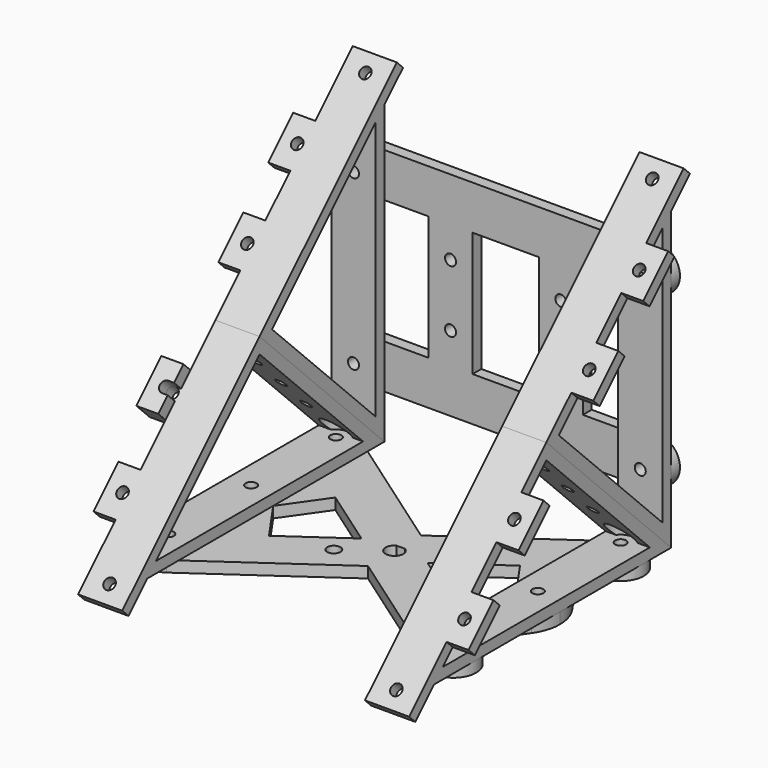
from build123d import *

# Parameters (mm, degrees)
F2_DEPTH  = 20
F3_DEPTH  = 20
F5_R      = 2.5
F6_DEPTH  = 5
F4_R      = 2.5
F4_R_2    = 3
F7_DEPTH  = 5
F8_R      = 2.5
F9_DEPTH  = 5
F10_R     = 2.5
F11_DEPTH = 5
F13_W     = 10
F13_H     = 20
F13_W_2   = 20
F13_H_2   = 22.0710678119
F13_R     = 2.5
F14_DEPTH = 5
F15_R     = 2.5
F16_DEPTH = 5
F17_W     = 10
F17_H     = 20
F17_W_2   = 20
F17_H_2   = 22.0710678119
F17_R     = 2.5
F18_DEPTH = 5
F19_R     = 2.5
F20_DEPTH = 5
F21_R     = 2.5
F22_DEPTH = 10
F23_R     = 6
F24_DEPTH = 25
F27_DEPTH = 5.7


with BuildPart() as f2:
    # F0 (on Right) → F2 (new body)
    with BuildSketch(Plane.YZ):
        Polygon((-70.7106781187, 70.7106781187), (-141.4213562373, 0), (0, 0), align=None)
        Polygon((-12.0710678119, 5), (-129.3502884254, 5), (-70.7106781187, 63.6396103068), align=None, mode=Mode.SUBTRACT)
    extrude(amount=F2_DEPTH)

    # F10 (on face) → F11 (cut, through all)
    with BuildSketch(Plane(origin=(0, 0, 0), x_dir=(1, 0, 0), z_dir=(0, 0, -1))):
        with Locations((10.4454636048, 110.450016473)):
            Circle(F10_R)
        with Locations((10, 63)):
            Circle(F10_R)
        with Locations((10.4454636048, 15.549983527)):
            Circle(F10_R)
    extrude(amount=-F11_DEPTH, mode=Mode.SUBTRACT)

    # F17 (on face) → F18 (join)
    with BuildSketch(Plane(origin=(0, -70.7106781187, 70.7106781187), x_dir=(1, 0, 0), z_dir=(0, -0.7071067812, 0.7071067812))):
        with Locations((-5, -70)):
            Rectangle(F17_W, F17_H)
        with Locations((-5, -30)):
            Rectangle(F17_W, F17_H)
        with Locations((10, -98.9644660941)):
            Rectangle(F17_W_2, F17_H_2)
        with Locations((10, -102.5)):
            Circle(F17_R, mode=Mode.SUBTRACT)
    extrude(amount=-F18_DEPTH)

    # F19 (on face) → F20 (cut, through all)
    with BuildSketch(Plane(origin=(0, -70.7106781187, 70.7106781187), x_dir=(1, 0, 0), z_dir=(0, -0.7071067812, 0.7071067812))):
        with Locations((-2.5, -30)):
            Circle(F19_R)
        with Locations((-2.5, -70)):
            Circle(F19_R)
    extrude(amount=-F20_DEPTH, mode=Mode.SUBTRACT)


with BuildPart() as f3:
    # F1 (on Right) → F3 (new body)
    with BuildSketch(Plane.YZ):
        Polygon((-70.7106781187, 70.7106781187), (0, 0), (0, 141.4213562373), align=None)
        Polygon((-5, 12.0710678119), (-63.6396103068, 70.7106781187), (-5, 129.3502884254), align=None, mode=Mode.SUBTRACT)
    extrude(amount=F3_DEPTH)

    # F5 (on face) → F6 (cut, through all)
    with BuildSketch(Plane(origin=(0, 0, 0), x_dir=(-1, 0, 0), z_dir=(0, 1, 0))):
        with Locations((-10, 106.4213562373)):
            Circle(F5_R)
        with Locations((-10, 30)):
            Circle(F5_R)
    extrude(amount=-F6_DEPTH, mode=Mode.SUBTRACT)

    # F13 (on face) → F14 (join)
    with BuildSketch(Plane(origin=(0, -70.7106781187, 70.7106781187), x_dir=(1, 0, 0), z_dir=(0, -0.7071067812, 0.7071067812))):
        with Locations((-5, 70)):
            Rectangle(F13_W, F13_H)
        with Locations((-5, 30)):
            Rectangle(F13_W, F13_H)
        with Locations((10, 98.9644660941)):
            Rectangle(F13_W_2, F13_H_2)
        with Locations((10, 102.5)):
            Circle(F13_R, mode=Mode.SUBTRACT)
    extrude(amount=-F14_DEPTH)

    # F15 (on face) → F16 (cut, through all)
    with BuildSketch(Plane(origin=(0, -70.7106781187, 70.7106781187), x_dir=(1, 0, 0), z_dir=(0, -0.7071067812, 0.7071067812))):
        with Locations((-2.5, 70)):
            Circle(F15_R)
        with Locations((-2.5, 30)):
            Circle(F15_R)
    extrude(amount=-F16_DEPTH, mode=Mode.SUBTRACT)


with BuildPart() as f7:
    # F4 (on Top) → F7 (new body)
    with BuildSketch(Plane.XY):
        with BuildLine():
            Line((133.5632646047, -6.9935606616), (75, -48))
            Line((75, -48), (16.4367353953, -6.9935606616))
            ThreePointArc((16.4367353953, -6.9935606616), (1.8890407394, -9.5587117365), (4.4541918143, -24.1064063924))
            Line((4.4541918143, -24.1064063924), (16.7765562477, -32.7346188573))
            Line((16.7765562477, -32.7346188573), (3.6169591142, -51.528471273))
            ThreePointArc((3.6169591142, -51.528471273), (0.925660985, -56.9858840099), (0, -63))
            ThreePointArc((0, -63), (0.925660985, -69.0141159901), (3.6169591142, -74.471528727))
            Line((3.6169591142, -74.471528727), (16.7765562477, -93.2653811427))
            Line((16.7765562477, -93.2653811427), (4.4541918143, -101.8935936076))
            ThreePointArc((4.4541918143, -101.8935936076), (1.8890407394, -116.4412882635), (16.4367353953, -119.0064393384))
            Line((16.4367353953, -119.0064393384), (75, -78))
            Line((75, -78), (133.5632646047, -119.0064393384))
            ThreePointArc((133.5632646047, -119.0064393384), (148.1109592606, -116.4412882635), (145.5458081857, -101.8935936076))
            Line((145.5458081857, -101.8935936076), (133.2234437523, -93.2653811427))
            Line((133.2234437523, -93.2653811427), (146.3830408858, -74.471528727))
            ThreePointArc((146.3830408858, -74.471528727), (149.074339015, -69.0141159901), (150, -63))
            ThreePointArc((150, -63), (149.074339015, -56.9858840099), (146.3830408858, -51.528471273))
            Line((146.3830408858, -51.528471273), (133.2234437523, -32.7346188573))
            Line((133.2234437523, -32.7346188573), (145.5458081857, -24.1064063924))
            ThreePointArc((145.5458081857, -24.1064063924), (148.1109592606, -9.5587117365), (133.5632646047, -6.9935606616))
        make_face()
        with Locations((10.4454636048, -110.450016473)):
            Circle(F4_R, mode=Mode.SUBTRACT)
        with Locations((57.6763832506, -75.7335110131)):
            Circle(F4_R_2, mode=Mode.SUBTRACT)
        with Locations((139.5545363952, -110.450016473)):
            Circle(F4_R, mode=Mode.SUBTRACT)
        with BuildLine():
            ThreePointArc((76.9364916731, -59.5), (75, -67), (73.0635083269, -59.5))
            Line((73.0635083269, -59.5), (75, -59.5))
            Line((75, -59.5), (76.9364916731, -59.5))
        make_face(mode=Mode.SUBTRACT)
        with Locations((10, -63)):
            Circle(F4_R, mode=Mode.SUBTRACT)
        Polygon((33.1595971335, -44.2061475843), (60, -63), (33.1595971335, -81.7938524157), (20, -63), align=None, mode=Mode.SUBTRACT)
        with Locations((10.4454636048, -15.549983527)):
            Circle(F4_R, mode=Mode.SUBTRACT)
        with Locations((92.3236167494, -50.2664889869)):
            Circle(F4_R_2, mode=Mode.SUBTRACT)
        Polygon((116.8404028665, -81.7938524157), (90, -63), (116.8404028665, -44.2061475843), (130, -63), align=None, mode=Mode.SUBTRACT)
        with Locations((140, -63)):
            Circle(F4_R, mode=Mode.SUBTRACT)
        with Locations((139.5545363952, -15.549983527)):
            Circle(F4_R, mode=Mode.SUBTRACT)
    extrude(amount=-F7_DEPTH)


with BuildPart() as f9:
    # F8 (on face) → F9 (new body)
    with BuildSketch(Plane(origin=(0, 0, 0), x_dir=(-1, 0, 0), z_dir=(0, 1, 0))):
        with BuildLine():
            ThreePointArc((-10, 96.4213562373), (0, 106.4213562373), (-10, 116.4213562373))
            Line((-10, 116.4213562373), (-75, 116.4213562373))
            Line((-75, 116.4213562373), (-140, 116.4213562373))
            ThreePointArc((-140, 116.4213562373), (-150, 106.4213562373), (-140, 96.4213562373))
            Line((-140, 96.4213562373), (-110, 96.4213562373))
            Line((-110, 96.4213562373), (-110, 68.2106781187))
            Line((-110, 68.2106781187), (-110, 40))
            Line((-110, 40), (-140, 40))
            ThreePointArc((-140, 40), (-150, 30), (-140, 20))
            Line((-140, 20), (-75, 20))
            Line((-75, 20), (-10, 20))
            ThreePointArc((-10, 20), (0, 30), (-10, 40))
            Line((-10, 40), (-40, 40))
            Line((-40, 40), (-40, 68.2106781187))
            Line((-40, 68.2106781187), (-40, 96.4213562373))
            Line((-40, 96.4213562373), (-10, 96.4213562373))
        make_face()
        with Locations((-140, 30)):
            Circle(F8_R, mode=Mode.SUBTRACT)
        with Locations((-100, 54.1053390593)):
            Circle(F8_R, mode=Mode.SUBTRACT)
        with Locations((-10, 30)):
            Circle(F8_R, mode=Mode.SUBTRACT)
        with Locations((-50, 54.1053390593)):
            Circle(F8_R, mode=Mode.SUBTRACT)
        Polygon((-75, 96.4213562373), (-60, 96.4213562373), (-60, 68.2106781187), (-60, 40), (-75, 40), (-90, 40), (-90, 68.2106781187), (-90, 96.4213562373), align=None, mode=Mode.SUBTRACT)
        with Locations((-100, 82.316017178)):
            Circle(F8_R, mode=Mode.SUBTRACT)
        with Locations((-140, 106.4213562373)):
            Circle(F8_R, mode=Mode.SUBTRACT)
        with Locations((-50, 82.316017178)):
            Circle(F8_R, mode=Mode.SUBTRACT)
        with Locations((-10, 106.4213562373)):
            Circle(F8_R, mode=Mode.SUBTRACT)
    extrude(amount=F9_DEPTH)


with BuildPart() as f22_tool:
    # F21 (on face) → F22 (new body)
    with BuildSketch(Plane(origin=(0, 3.5355339059, 3.5355339059), x_dir=(-1, 0, 0), z_dir=(0, 0.7071067812, 0.7071067812))):
        with Locations((-10, 80)):
            Circle(F21_R)
        with Locations((-10, 60)):
            Circle(F21_R)
        with Locations((-10, 40)):
            Circle(F21_R)
    extrude(amount=-F22_DEPTH)


with BuildPart() as f2_1:
    add(f2.part)

    # F22: cut by f22_tool
    add(f22_tool.part, mode=Mode.SUBTRACT)


with BuildPart() as f3_1:
    add(f3.part)

    # F22: cut by f22_tool
    add(f22_tool.part, mode=Mode.SUBTRACT)


with BuildPart() as f24_tool:
    # F23 (on face) → F24 (new body)
    with BuildSketch(Plane.XY.offset(5)):
        with Locations((10.4454636048, -15.549983527)):
            Circle(F23_R)
    extrude(amount=F24_DEPTH)


with BuildPart() as f2_2:
    add(f2_1.part)

    # F24: cut by f24_tool
    add(f24_tool.part, mode=Mode.SUBTRACT)


with BuildPart() as f3_2:
    add(f3_1.part)

    # F24: cut by f24_tool
    add(f24_tool.part, mode=Mode.SUBTRACT)


with BuildPart() as f25_1:
    # F25: instance of F2
    add(f2_2.part.mirror(Plane.YZ.offset(75)))


with BuildPart() as f25_2:
    # F25: instance of F3
    add(f3_2.part.mirror(Plane.YZ.offset(75)))


with BuildPart() as f27:
    # F26 (on face) → F27 (new body)
    with BuildSketch(Plane(origin=(0, -70.7106781187, 70.7106781187), x_dir=(1, 0, 0), z_dir=(0, -0.7071067812, 0.7071067812))):
        with BuildLine():
            Line((0, -27.5), (0, -20))
            Line((0, -20), (-10, -20))
            Line((-10, -20), (-10, -40))
            Line((-10, -40), (0, -40))
            Line((0, -40), (0, -32.5))
            Line((0, -32.5), (-2.5, -32.5))
            ThreePointArc((-2.5, -32.5), (-5, -30), (-2.5, -27.5))
            Line((-2.5, -27.5), (0, -27.5))
        make_face()
    extrude(amount=F27_DEPTH)


solid = Compound([f7.part, f9.part, f2_2.part, f3_2.part, f25_1.part, f25_2.part, f27.part])
